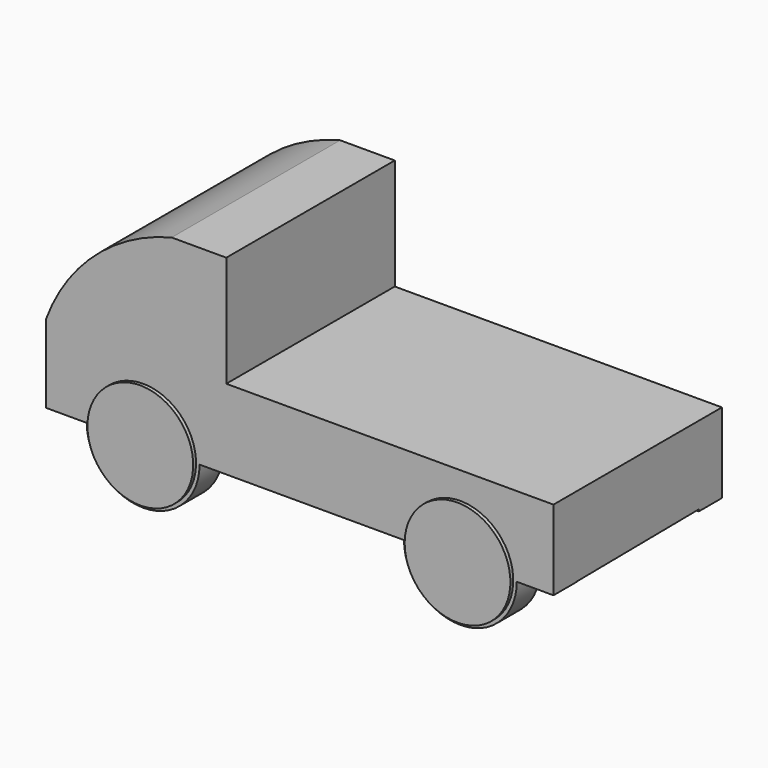
from build123d import *

# Parameters (mm, degrees)
F0_W     = 3530
F0_H     = 1465
F1_DEPTH = 1720
F4_DEPTH = 3600
F2_W     = 2276.1628627777
F2_H     = 772.0854592323
F5_DEPTH = 2000
F7_DEPTH = 25
F9_DEPTH = 25


with BuildPart() as f1:
    # F0 (on Top) → F1 (new body)
    with BuildSketch(Plane.XY):
        with Locations((-1765, 728.4852225147)):
            Rectangle(F0_W, F0_H)
    extrude(amount=F1_DEPTH)

    # F3 (on face) → F4 (cut)
    with BuildSketch(Plane.YZ):
        Polygon((201.2, 394.3797231357), (201.2, 0), (1259.7781419754, 0), (1259.7781419754, 405.2137233015), align=None)
    extrude(amount=-F4_DEPTH, mode=Mode.SUBTRACT)

    # F2 (on face) → F5 (cut)
    with BuildSketch(Plane.XZ.offset(4.0147774853)):
        with BuildLine():
            Line((-3530, 392.3316299915), (-3530, 0))
            Line((-3530, 0), (0, 0))
            Line((0, 0), (0, 392.3316299915))
            Line((0, 392.3316299915), (-255.252728653, 392.3316299915))
            ThreePointArc((-255.252728653, 392.3316299915), (-647.552728653, 0.0316299915), (-1039.852728653, 392.3316299915))
            Line((-1039.852728653, 392.3316299915), (-2462.1497489929, 392.3316299915))
            ThreePointArc((-2462.1497489929, 392.3316299915), (-2854.4497489929, 0.0316299915), (-3246.7497489929, 392.3316299915))
            Line((-3246.7497489929, 392.3316299915), (-3530, 392.3316299915))
        make_face()
        with Locations((-1138.0814313889, 1333.9572703838)):
            Rectangle(F2_W, F2_H)
        with BuildLine():
            Line((-3530, 1720), (-3530, 937.7999901772))
            ThreePointArc((-3530, 937.7999901772), (-3189.7313507359, 1436.7261664282), (-2656.3777923584, 1720))
            Line((-2656.3777923584, 1720), (-3530, 1720))
        make_face()
    extrude(amount=-F5_DEPTH, mode=Mode.SUBTRACT)


with BuildPart() as f7:
    # F6 (on face) → F7 (new body)
    with BuildSketch(Plane.XZ.offset(4.0147774853)):
        with BuildLine():
            Line((-3222.3179076584, 392.3316299915), (-2486.5815903274, 392.3316299915))
            ThreePointArc((-2486.5815903274, 392.3316299915), (-2854.4497489929, 760.199788657), (-3222.3179076584, 392.3316299915))
        make_face()
        with BuildLine():
            ThreePointArc((-3222.3179076584, 392.3316299915), (-2854.4497489929, 24.4634713261), (-2486.5815903274, 392.3316299915))
            Line((-2486.5815903274, 392.3316299915), (-3222.3179076584, 392.3316299915))
        make_face()
    extrude(amount=F7_DEPTH)


with BuildPart() as f7b:
    # F6 (on face) → F7, piece 2 (new body)
    with BuildSketch(Plane.XZ.offset(4.0147774853)):
        with BuildLine():
            ThreePointArc((-279.702728653, 392.3316299915), (-647.552728653, 760.1816299915), (-1015.402728653, 392.3316299915))
            Line((-1015.402728653, 392.3316299915), (-279.702728653, 392.3316299915))
        make_face()
        with BuildLine():
            Line((-279.702728653, 392.3316299915), (-1015.402728653, 392.3316299915))
            ThreePointArc((-1015.402728653, 392.3316299915), (-647.552728653, 24.4816299915), (-279.702728653, 392.3316299915))
        make_face()
    extrude(amount=F7_DEPTH)


with BuildPart() as f9:
    # F8 (on face) → F9 (new body)
    with BuildSketch(Plane(origin=(0, 1460.9852225147, 0), x_dir=(-1, 0, 0), z_dir=(0, 1, 0))):
        with BuildLine():
            Line((294.702728653, 392.3316299915), (1000.402728653, 392.3316299915))
            ThreePointArc((1000.402728653, 392.3316299915), (647.552728653, 745.1816299915), (294.702728653, 392.3316299915))
        make_face()
        with BuildLine():
            ThreePointArc((294.702728653, 392.3316299915), (647.552728653, 39.4816299915), (1000.402728653, 392.3316299915))
            Line((1000.402728653, 392.3316299915), (294.702728653, 392.3316299915))
        make_face()
    extrude(amount=F9_DEPTH)


with BuildPart() as f9b:
    # F8 (on face) → F9, piece 2 (new body)
    with BuildSketch(Plane(origin=(0, 1460.9852225147, 0), x_dir=(-1, 0, 0), z_dir=(0, 1, 0))):
        with BuildLine():
            ThreePointArc((3207.2997489929, 392.3316299915), (2854.4497489929, 745.1816299915), (2501.5997489929, 392.3316299915))
            Line((2501.5997489929, 392.3316299915), (3207.2997489929, 392.3316299915))
        make_face()
        with BuildLine():
            Line((3207.2997489929, 392.3316299915), (2501.5997489929, 392.3316299915))
            ThreePointArc((2501.5997489929, 392.3316299915), (2854.4497489929, 39.4816299915), (3207.2997489929, 392.3316299915))
        make_face()
    extrude(amount=F9_DEPTH)


solid = Compound([f1.part, f7.part, f7b.part, f9.part, f9b.part])
